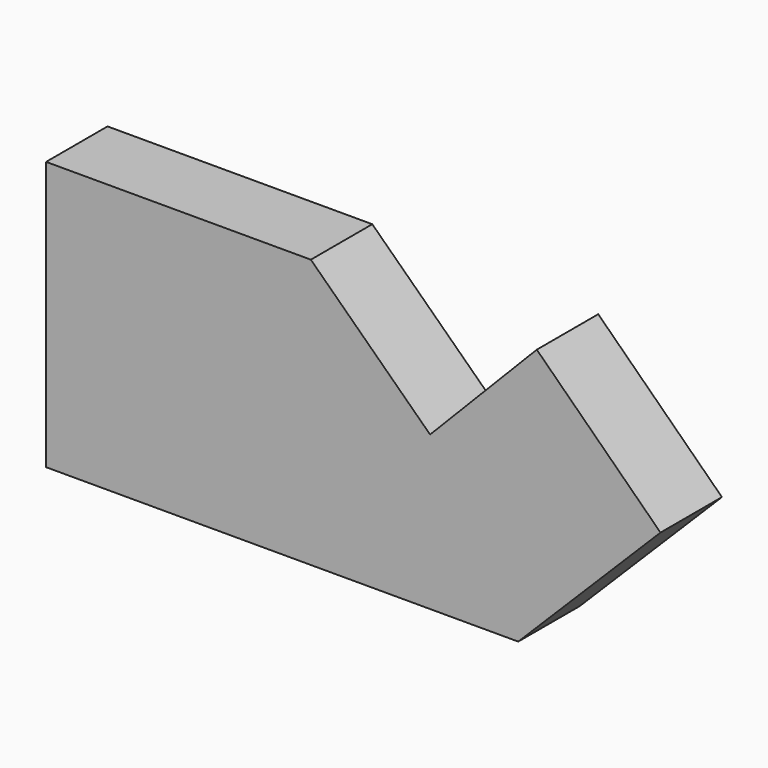
from build123d import *

# Parameters (mm, degrees)
F1_DEPTH = 10


with BuildPart() as f1:
    # F0 (on Front) → F1 (new body)
    with BuildSketch(Plane.XZ):
        Polygon((0, 35), (0, 0), (61.478138, 0), (80, 18.521862), (63.894674, 34.252785), (50, 20), (34.47455, 35), align=None)
        Polygon((0, 35), (0, 0), (61.478138, 0), (80, 18.521862), (63.894674, 34.252785), (50, 20), (34.47455, 35), align=None)
    extrude(amount=F1_DEPTH)


solid = f1.part
